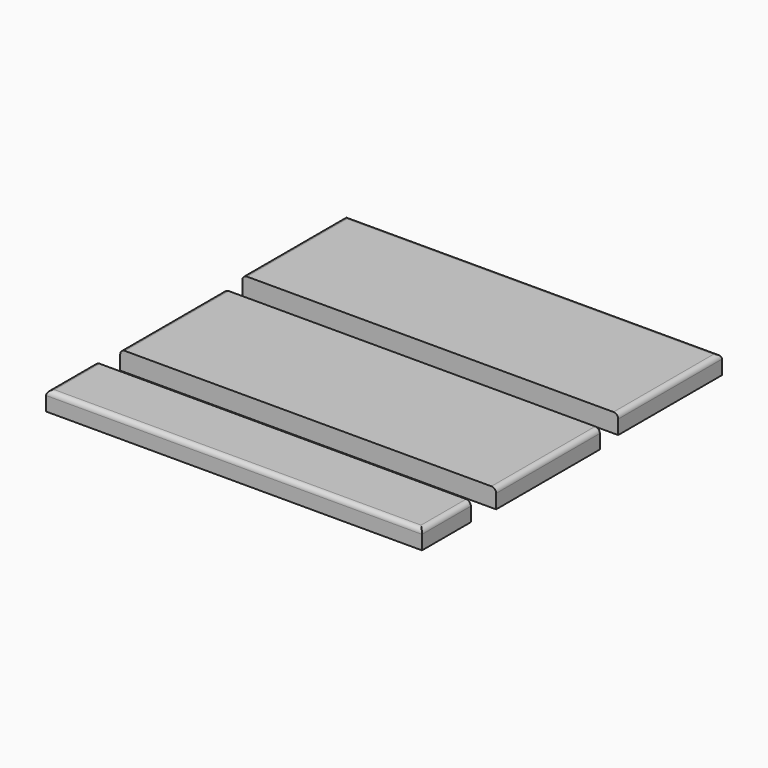
from build123d import *

# Parameters (mm, degrees)
F0_W     = 400
F0_H     = 138
F0_H_2   = 65
F1_DEPTH = 20
F2_R     = 5


with BuildPart() as f1:
    # F0 (on Top) → F1 (new body)
    with BuildSketch(Plane.XY):
        with Locations((-200, 69)):
            Rectangle(F0_W, F0_H)
        with Locations((-195.672709, -98.763943)):
            Rectangle(F0_W, F0_H)
        with Locations((-197.663327, -231.363236)):
            Rectangle(F0_W, F0_H_2)
    extrude(amount=F1_DEPTH)

    # F2
    f2_edges = [f1.edges().sort_by_distance(p)[0] for p in [
        (-397.663327, -231.363236, 20),
        (2.336673, -231.363236, 20),
        (-197.663327, -263.863236, 20),
        (-395.672709, -98.763943, 20),
        (4.327291, -98.763943, 20),
        (0, 69, 20),
        (-400, 69, 20),
        (-200, 138, 20),
    ]]
    fillet(f2_edges, radius=F2_R)


solid = f1.part
